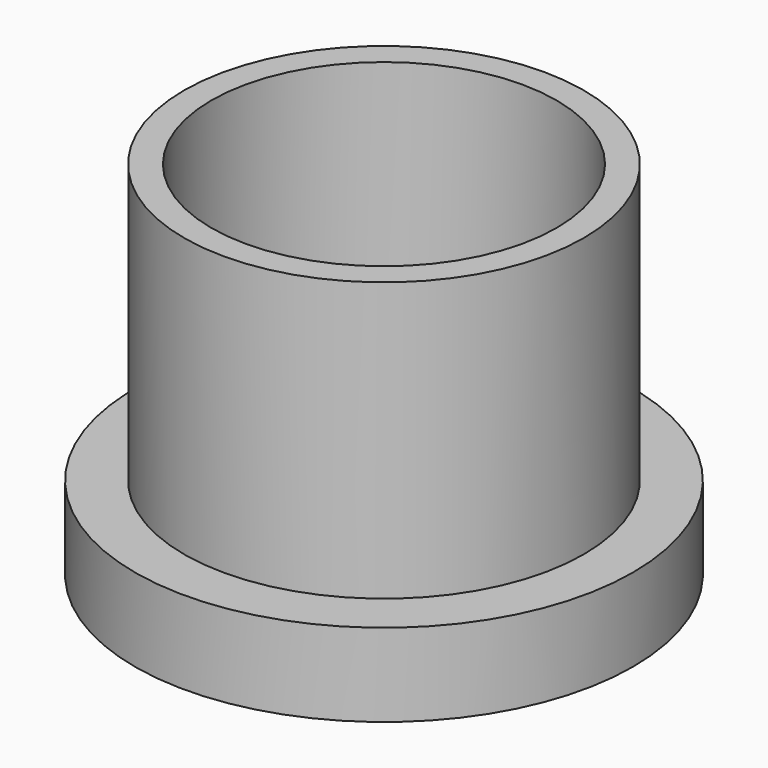
from build123d import *

# Parameters (mm, degrees)
F1_R     = 30.580116
F1_R_2   = 26.414557
F2_DEPTH = 42.605285
F3_R     = 38.1
F4_DEPTH = 12.7
F5_R     = 23.348027
F6_DEPTH = 25.4


with BuildPart() as f2:
    # F1 (on offset) → F2 (new body)
    with BuildSketch(Plane.XY.offset(-64.257657)):
        Circle(F1_R)
        Circle(F1_R_2, mode=Mode.SUBTRACT)
    extrude(amount=F2_DEPTH)

    # F3 (on offset) → F4 (join)
    with BuildSketch(Plane.XY.offset(-64.257657)):
        Circle(F3_R)
    extrude(amount=-F4_DEPTH)

    # F5 (on face) → F6 (cut)
    with BuildSketch(Plane.XY.offset(-64.257657)):
        Circle(F5_R)
    extrude(amount=-F6_DEPTH, mode=Mode.SUBTRACT)


solid = f2.part
